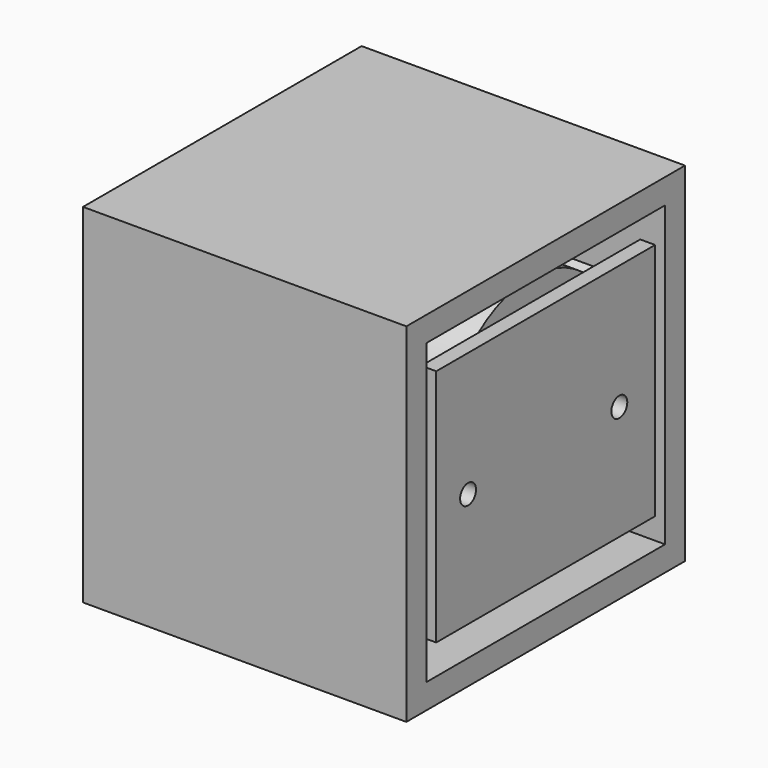
from build123d import *

# Parameters (mm, degrees)
F0_W      = 55
F0_H      = 48
F1_DEPTH  = 3
F2_R      = 4
F3_DEPTH  = 23.8
F4_R      = 2
F5_DEPTH  = 25
F7_R      = 21.5
F8_DEPTH  = 60
F6_W      = 70
F6_H      = 70
F6_W_2    = 60
F6_H_2    = 60
F9_DEPTH  = 65
F11_DEPTH = 24


with BuildPart() as f1:
    # F0 (on Right) → F1 (new body)
    with BuildSketch(Plane.YZ):
        Rectangle(F0_W, F0_H)
    extrude(amount=F1_DEPTH)

    # F2 (on face) → F3 (join)
    with BuildSketch(Plane(origin=(0, 0, 0), x_dir=(0, -1, 0), z_dir=(-1, 0, 0))):
        with Locations((-22.9, 7)):
            Circle(F2_R)
        with Locations((22.9, 7)):
            Circle(F2_R)
    extrude(amount=F3_DEPTH)

    # F4 (on face) → F5 (cut)
    with BuildSketch(Plane.YZ.offset(3)):
        with Locations((-19.5, -1)):
            Circle(F4_R)
        with Locations((18.5, -1)):
            Circle(F4_R)
    extrude(amount=-F5_DEPTH, mode=Mode.SUBTRACT)

    # F7 (on face) → F8 (join)
    with BuildSketch(Plane(origin=(0, 0, 0), x_dir=(0, -1, 0), z_dir=(-1, 0, 0))):
        with Locations((0, 7)):
            Circle(F7_R)
    extrude(amount=F8_DEPTH)


with BuildPart() as f9:
    # F6 (on face) → F9 (new body)
    with BuildSketch(Plane.YZ.offset(3)):
        Rectangle(F6_W, F6_H)
        Rectangle(F6_W_2, F6_H_2, mode=Mode.SUBTRACT)
    extrude(amount=-F9_DEPTH)

    # F10 (on Right) → F11 (join)
    with BuildSketch(Plane.YZ):
        with BuildLine():
            Line((-30, -0.5), (-21.2869619834, 3.3396573443))
            ThreePointArc((-21.2869619834, 3.3396573443), (-18.9, 7), (-21.2869619834, 10.6603426557))
            Line((-21.2869619834, 10.6603426557), (-30, 14.5))
            Line((-30, 14.5), (-30, -0.5))
        make_face()
        with BuildLine():
            Line((30, 14.5), (21.2869619834, 10.6603426557))
            ThreePointArc((21.2869619834, 10.6603426557), (18.9, 7), (21.2869619834, 3.3396573443))
            Line((21.2869619834, 3.3396573443), (30, -0.5))
            Line((30, -0.5), (30, 14.5))
        make_face()
    extrude(amount=-F11_DEPTH)


solid = Compound([f1.part, f9.part])
